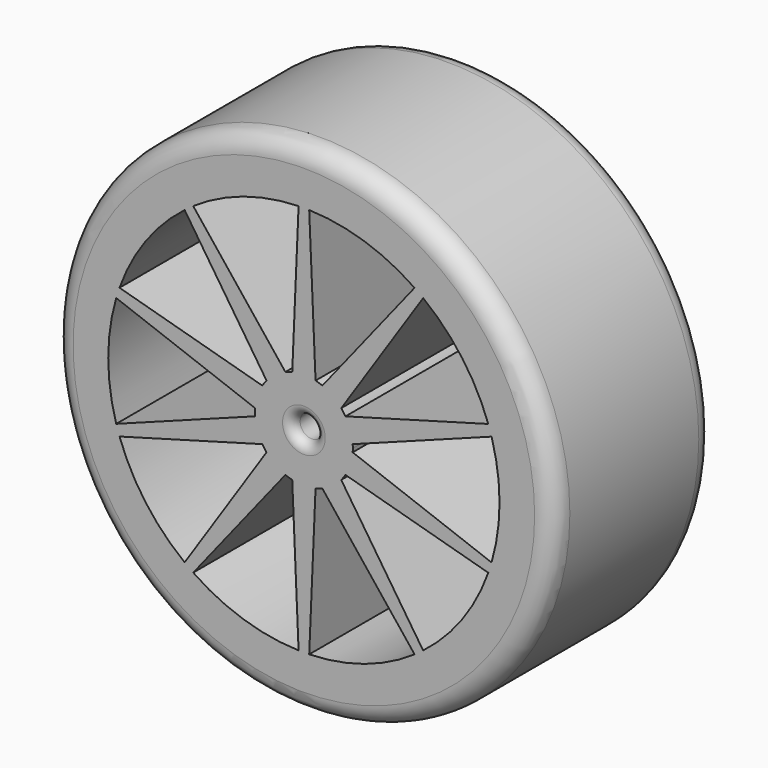
from build123d import *

# Parameters (mm, degrees)
F0_R     = 32.5
F0_R_2   = 1.5
F1_DEPTH = 26
F2_R     = 2.54
F4_DEPTH = 50.8
F5_R     = 1.27


with BuildPart() as f1:
    # F0 (on Front) → F1 (new body)
    with BuildSketch(Plane.XZ):
        Circle(F0_R)
        Circle(F0_R_2, mode=Mode.SUBTRACT)
    extrude(amount=F1_DEPTH)

    # F2
    f2_edges = [f1.edges().sort_by_distance(p)[0] for p in [
        (-32.5, -26, 0),
        (-32.5, 0, 0),
    ]]
    fillet(f2_edges, radius=F2_R)

    # F3 (on face) → F4 (cut)
    with BuildSketch(Plane.XZ.offset(26)):
        with BuildLine():
            Line((-1.512987, 6.16712), (-0.689091, 25.390651))
            ThreePointArc((-0.689091, 25.390651), (-7.849032, 24.156836), (-14.366764, 20.946505))
            Line((-14.366764, 20.946505), (-2.40091, 5.878617))
            ThreePointArc((-2.40091, 5.878617), (-1.962258, 6.039209), (-1.512987, 6.16712))
        make_face()
        with BuildLine():
            Line((2.40091, 5.878617), (14.366764, 20.946505))
            ThreePointArc((14.366764, 20.946505), (7.849032, 24.156836), (0.689091, 25.390651))
            Line((0.689091, 25.390651), (1.512987, 6.16712))
            ThreePointArc((1.512987, 6.16712), (1.962258, 6.039209), (2.40091, 5.878617))
        make_face()
        with BuildLine():
            Line((5.397741, 3.344681), (23.935003, 8.501507))
            ThreePointArc((23.935003, 8.501507), (20.549032, 14.929745), (15.481736, 20.136431))
            Line((15.481736, 20.136431), (4.848975, 4.099993))
            ThreePointArc((4.848975, 4.099993), (5.137258, 3.732436), (5.397741, 3.344681))
        make_face()
        with BuildLine():
            ThreePointArc((24.360885, -7.190779), (25.138879, -3.632735), (25.4, 0))
            ThreePointArc((25.4, 0), (25.138879, 3.632735), (24.360885, 7.190779))
            Line((24.360885, 7.190779), (6.332818, 0.466808))
            ThreePointArc((6.332818, 0.466808), (6.345703, 0.233562), (6.35, 0))
            ThreePointArc((6.35, 0), (6.345703, -0.233562), (6.332818, -0.466808))
            Line((6.332818, -0.466808), (24.360885, -7.190779))
        make_face()
        with BuildLine():
            ThreePointArc((15.481736, -20.136431), (20.549032, -14.929745), (23.935003, -8.501507))
            Line((23.935003, -8.501507), (5.397741, -3.344681))
            ThreePointArc((5.397741, -3.344681), (5.137258, -3.732436), (4.848975, -4.099993))
            Line((4.848975, -4.099993), (15.481736, -20.136431))
        make_face()
        with BuildLine():
            ThreePointArc((0.689091, -25.390651), (7.849032, -24.156836), (14.366764, -20.946505))
            Line((14.366764, -20.946505), (2.40091, -5.878617))
            ThreePointArc((2.40091, -5.878617), (1.962258, -6.039209), (1.512987, -6.16712))
            Line((1.512987, -6.16712), (0.689091, -25.390651))
        make_face()
        with BuildLine():
            ThreePointArc((-14.366764, -20.946505), (-7.849032, -24.156836), (-0.689091, -25.390651))
            Line((-0.689091, -25.390651), (-1.512987, -6.16712))
            ThreePointArc((-1.512987, -6.16712), (-1.962258, -6.039209), (-2.40091, -5.878617))
            Line((-2.40091, -5.878617), (-14.366764, -20.946505))
        make_face()
        with BuildLine():
            ThreePointArc((-23.935003, -8.501507), (-20.549032, -14.929745), (-15.481736, -20.136431))
            Line((-15.481736, -20.136431), (-4.848975, -4.099993))
            ThreePointArc((-4.848975, -4.099993), (-5.137258, -3.732436), (-5.397741, -3.344681))
            Line((-5.397741, -3.344681), (-23.935003, -8.501507))
        make_face()
        with BuildLine():
            Line((-6.332818, 0.466808), (-24.360885, 7.190779))
            ThreePointArc((-24.360885, 7.190779), (-25.4, 0), (-24.360885, -7.190779))
            Line((-24.360885, -7.190779), (-6.332818, -0.466808))
            ThreePointArc((-6.332818, -0.466808), (-6.35, 0), (-6.332818, 0.466808))
        make_face()
        with BuildLine():
            Line((-4.848975, 4.099993), (-15.481736, 20.136431))
            ThreePointArc((-15.481736, 20.136431), (-20.549032, 14.929745), (-23.935003, 8.501507))
            Line((-23.935003, 8.501507), (-5.397741, 3.344681))
            ThreePointArc((-5.397741, 3.344681), (-5.137258, 3.732436), (-4.848975, 4.099993))
        make_face()
    extrude(amount=-F4_DEPTH, mode=Mode.SUBTRACT)

    # F5
    f5_edges = [f1.edges().sort_by_distance(p)[0] for p in [
        (-1.5, -26, 0),
        (-1.5, 0, 0),
    ]]
    fillet(f5_edges, radius=F5_R)


solid = f1.part
